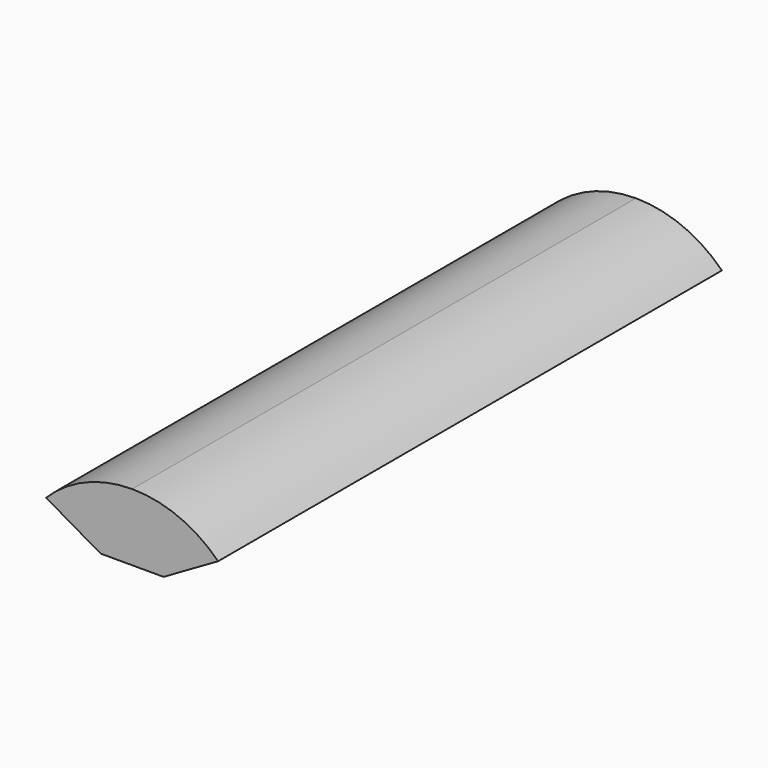
from build123d import *

# Parameters (mm, degrees)
F1_DEPTH = 25.4


with BuildPart() as f1:
    # F0 (on Front) → F1 (new body)
    with BuildSketch(Plane.XZ):
        with BuildLine():
            Line((-1.27, 0), (0, 0))
            Line((0, 0), (1.27, 0))
            Line((1.27, 0), (3.469705, 1.27))
            ThreePointArc((3.469705, 1.27), (1.877791, 2.333683), (0, 2.707199))
            ThreePointArc((0, 2.707199), (-1.877791, 2.333683), (-3.469705, 1.27))
            Line((-3.469705, 1.27), (-1.27, 0))
        make_face()
    extrude(amount=F1_DEPTH)


solid = f1.part
